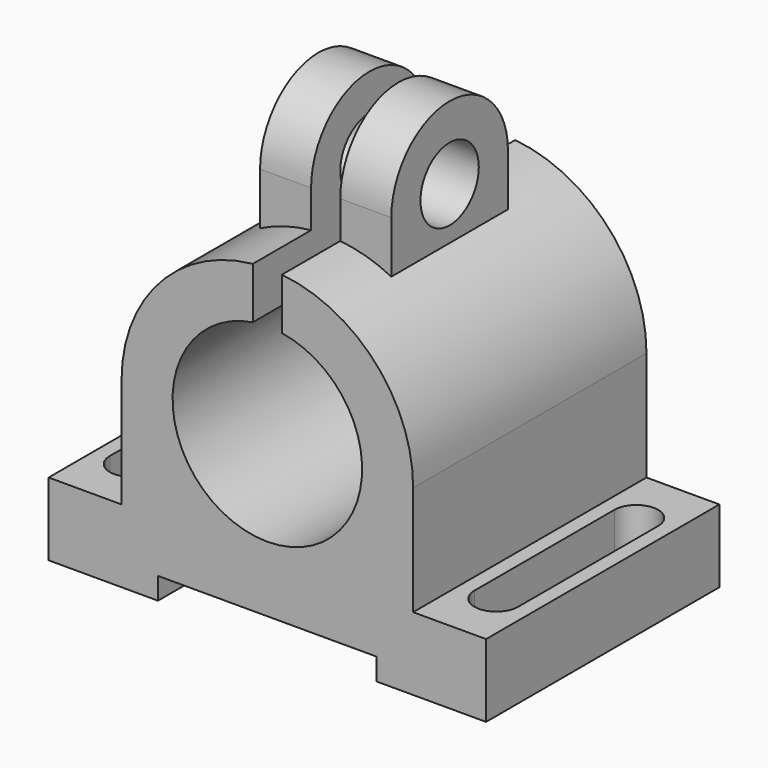
from build123d import *

# Parameters (mm, degrees)
SKETCH_W          = 60
SKETCH_H          = 40
PAD_DEPTH         = 10
PAD001_DEPTH      = 20
CYLINDER_R        = 13
CYLINDER_DEPTH    = 40
BOX_W             = 30
BOX_H             = 40
BOX_DEPTH         = 3
PAD002_DEPTH      = 9
CYLINDER001_R     = 5
CYLINDER001_DEPTH = 18
SKETCH003_W       = 4
SKETCH003_H       = 25
POCKET_DEPTH      = 20
POCKET001_DEPTH   = 10
POCKET002_DEPTH   = 10


with BuildPart() as part:
    # Sketch → Pad (new body)
    with BuildSketch(Plane.XY):
        Rectangle(SKETCH_W, SKETCH_H)
    extrude(amount=PAD_DEPTH)

    # Sketch001 → Pad001 (join, symmetric)
    with BuildSketch(Plane.XZ):
        with BuildLine():
            Line((-20, 10), (-20, 25))
            ThreePointArc((20, 25), (0, 45), (-20, 25))
            Line((20, 10), (20, 25))
            Line((-20, 10), (20, 10))
        make_face()
    extrude(amount=PAD001_DEPTH, both=True)

    # Cylinder → Cylinder (cut)
    with BuildSketch(Plane(origin=(0, -20, 25), x_dir=(-1, 0, 0), z_dir=(0, 1, 0))):
        Circle(CYLINDER_R)
    extrude(amount=CYLINDER_DEPTH, mode=Mode.SUBTRACT)

    # Box → Box (cut)
    with BuildSketch(Plane(origin=(15, -20, 3), x_dir=(-1, 0, 0), z_dir=(0, 0, -1))):
        with Locations((15, 20)):
            Rectangle(BOX_W, BOX_H)
    extrude(amount=BOX_DEPTH, mode=Mode.SUBTRACT)

    # Sketch002 → Pad002 (join, symmetric)
    with BuildSketch(Plane.YZ):
        with BuildLine():
            Line((-10, 50), (-10, 38))
            Line((-10, 38), (10, 38))
            Line((10, 50), (10, 38))
            ThreePointArc((10, 50), (0, 60), (-10, 50))
        make_face()
    extrude(amount=PAD002_DEPTH, both=True)

    # Cylinder001 → Cylinder001 (cut)
    with BuildSketch(Plane(origin=(9, 0, 50), x_dir=(0, 1, 0), z_dir=(-1, 0, 0))):
        Circle(CYLINDER001_R)
    extrude(amount=CYLINDER001_DEPTH, mode=Mode.SUBTRACT)

    # Sketch003 → Pocket (cut, symmetric)
    with BuildSketch(Plane.XZ):
        with Locations((0, 47.5)):
            Rectangle(SKETCH003_W, SKETCH003_H)
    extrude(amount=POCKET_DEPTH, both=True, mode=Mode.SUBTRACT)

    # Sketch004 → Pocket001 (cut)
    with BuildSketch(Plane.XY):
        with BuildLine():
            Line((-28, 12), (-28, -12))
            ThreePointArc((-28, -12), (-25, -15), (-22, -12))
            Line((-22, 12), (-22, -12))
            ThreePointArc((-22, 12), (-25, 15), (-28, 12))
        make_face()
    extrude(amount=POCKET001_DEPTH, mode=Mode.SUBTRACT)

    # Sketch005 → Pocket002 (cut)
    with BuildSketch(Plane.XY):
        with BuildLine():
            Line((22, 12), (22, -12))
            ThreePointArc((22, -12), (25, -15), (28, -12))
            Line((28, 12), (28, -12))
            ThreePointArc((28, 12), (25, 15), (22, 12))
        make_face()
    extrude(amount=POCKET002_DEPTH, mode=Mode.SUBTRACT)


solid = part.part
